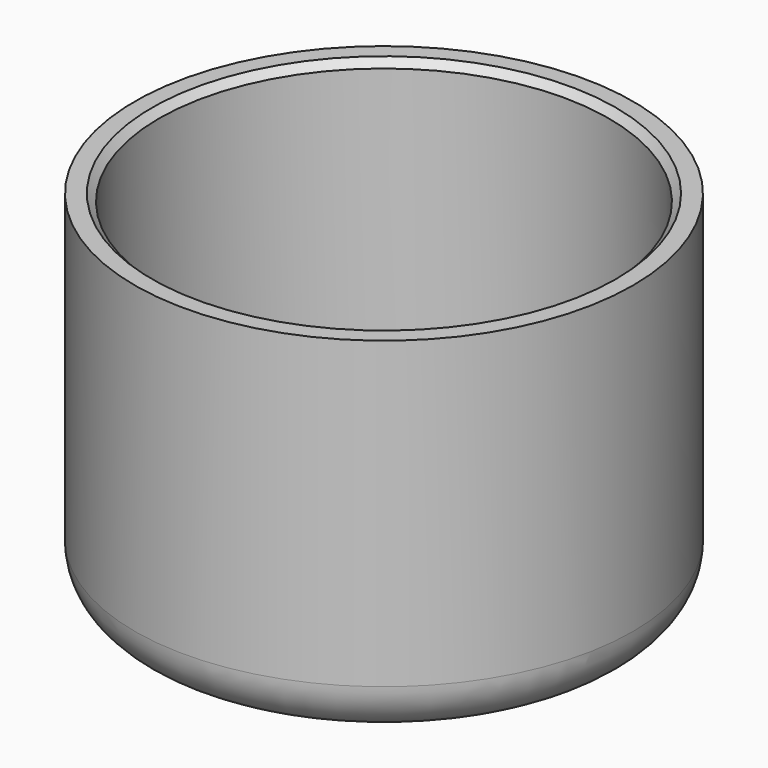
from build123d import *

# Parameters (mm, degrees)
F0_W    = 8.75
F0_H    = 12.5
F2_R    = 1.8
F3_T    = -0.85
F4_SIZE = 0.25


with BuildPart() as f1:
    # F0 (on Front) → F1 (revolve)
    with BuildSketch(Plane.XZ):
        Rectangle(F0_W, F0_H)
    revolve(axis=Axis((-4.375, 0, 0), (0, 0, 1)))

    # F2
    f2_edges = [f1.edges().sort_by_distance(p)[0] for p in [
        (-13.125, 0, -6.25),
    ]]
    fillet(f2_edges, radius=F2_R)

    # F3
    f3_openings = [f1.faces().sort_by_distance(p)[0] for p in [
        (-4.375, 0, 6.25),
    ]]
    offset(amount=F3_T, openings=f3_openings)

    # F4
    f4_edges = [f1.edges().sort_by_distance(p)[0] for p in [
        (-12.275, 0, 6.25),
    ]]
    chamfer(f4_edges, length=F4_SIZE)


solid = f1.part
